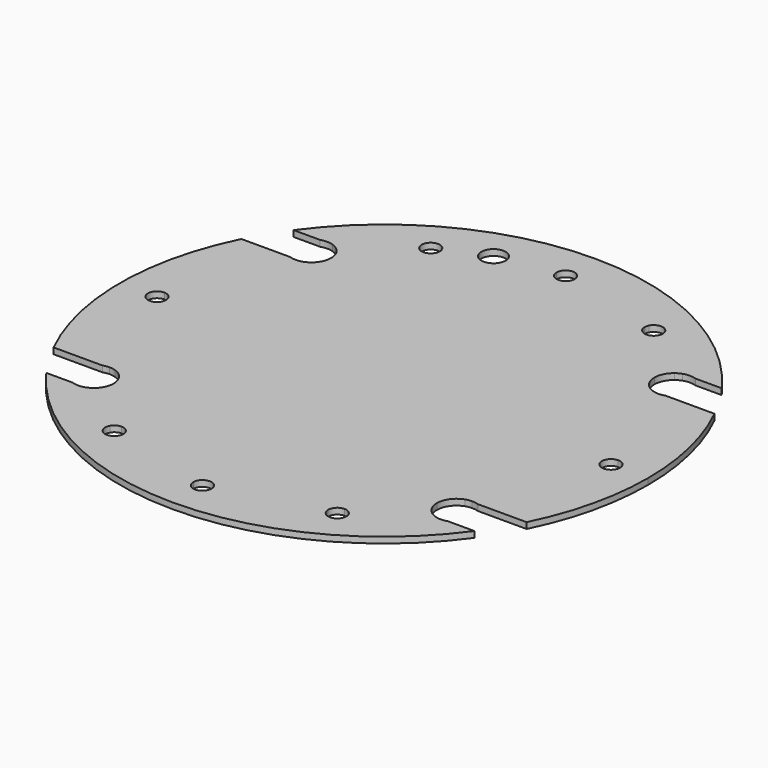
from build123d import *

# Parameters (mm, degrees)
F0_W     = 73.7878350085
F0_H     = 90
F1_DEPTH = 2


with BuildPart() as f1:
    # F0 (on Top) → F1 (new body)
    with BuildSketch(Plane.XY):
        with BuildLine():
            ThreePointArc((39.7444489138, 62.7662374325), (48.4949826486, 56.4517818988), (56.25072261, 48.9489366399))
            ThreePointArc((56.25072261, 48.9489366399), (57.1629943627, 49.5491889391), (58.1628805597, 49.9882449339))
            ThreePointArc((58.1628805597, 49.9882449339), (60.2670431009, 50.3382449339), (62.3712056422, 49.9882449339))
            Line((62.3712056422, 49.9882449339), (71.1075096636, 49.9882449339))
            ThreePointArc((71.1075096636, 49.9882449339), (0.2670431009, 86.2149821287), (-70.5734234617, 49.9882449339))
            Line((-70.5734234617, 49.9882449339), (-61.8371194403, 49.9882449339))
            ThreePointArc((-61.8371194403, 49.9882449339), (-59.7329568991, 50.3382449339), (-57.6287943578, 49.9882449339))
            ThreePointArc((-57.6287943578, 49.9882449339), (-56.6289081608, 49.5491889391), (-55.7166364081, 48.9489366399))
            ThreePointArc((-55.7166364081, 48.9489366399), (-47.9608964467, 56.4517818988), (-39.210362712, 62.7662374325))
            ThreePointArc((-39.210362712, 62.7662374325), (-38.0999813971, 66.9046437634), (-33.9845676129, 65.7118642328))
            ThreePointArc((-33.9845676129, 65.7118642328), (-29.5146570092, 67.8187069008), (-24.9159238599, 69.6271704072))
            ThreePointArc((-24.9159238599, 69.6271704072), (-22.2511598208, 74.7016983457), (-17.2493627904, 71.9028007682))
            ThreePointArc((-17.2493627904, 71.9028007682), (-10.040168129, 73.2628053376), (-2.7327040585, 73.9132428466))
            ThreePointArc((-2.7327040585, 73.9132428466), (0.2475684804, 76.9521280563), (3.2670431009, 73.9521912671))
            ThreePointArc((3.2670431009, 73.9521912671), (3.2669798901, 73.9327166465), (3.2667902604, 73.9132428466))
            ThreePointArc((3.2667902604, 73.9132428466), (19.3387910188, 71.5123271502), (34.5186538148, 65.7118642328))
            ThreePointArc((34.5186538148, 65.7118642328), (37.8934493863, 67.2004280253), (40.1609606052, 64.2912253535))
            ThreePointArc((40.1609606052, 64.2912253535), (40.0549599941, 63.5008029746), (39.7444489138, 62.7662374325))
        make_face()
        with BuildLine():
            Line((-33.6268744033, 64.2912253535), (34.1609606052, 64.2912253535))
            ThreePointArc((34.1609606052, 64.2912253535), (34.2517579334, 65.0237141345), (34.5186538148, 65.7118642328))
            ThreePointArc((34.5186538148, 65.7118642328), (19.3387910188, 71.5123271502), (3.2667902604, 73.9132428466))
            ThreePointArc((3.2667902604, 73.9132428466), (0.2670431009, 70.9521912671), (-2.7327040585, 73.9132428466))
            ThreePointArc((-2.7327040585, 73.9132428466), (-10.040168129, 73.2628053376), (-17.2493627904, 71.9028007682))
            ThreePointArc((-17.2493627904, 71.9028007682), (-17.1471933384, 71.3894027327), (-17.1129413209, 70.8670590345))
            ThreePointArc((-17.1129413209, 70.8670590345), (-20.4852193108, 66.9166204414), (-24.9159238599, 69.6271704072))
            ThreePointArc((-24.9159238599, 69.6271704072), (-29.5146570092, 67.8187069008), (-33.9845676129, 65.7118642328))
            ThreePointArc((-33.9845676129, 65.7118642328), (-33.7176717315, 65.0237141345), (-33.6268744033, 64.2912253535))
        make_face()
        with BuildLine():
            Line((-36.6268744033, 43.8382449339), (37.1609606052, 43.8382449339))
            Line((37.1609606052, 43.8382449339), (37.1609606052, 49.2871185703))
            ThreePointArc((37.1609606052, 49.2871185703), (0.2670431009, 61.3382449339), (-36.6268744033, 49.2871185703))
            Line((-36.6268744033, 49.2871185703), (-36.6268744033, 43.8382449339))
        make_face()
        with Locations((0.2670431009, -1.1617550661)):
            Rectangle(F0_W, F0_H)
        with BuildLine():
            ThreePointArc((-36.6268744033, 49.2871185703), (0.2670431009, 61.3382449339), (37.1609606052, 49.2871185703))
            Line((37.1609606052, 49.2871185703), (37.1609606052, 61.2912253535))
            ThreePointArc((37.1609606052, 61.2912253535), (35.0396402617, 62.1699050099), (34.1609606052, 64.2912253535))
            Line((34.1609606052, 64.2912253535), (-33.6268744033, 64.2912253535))
            ThreePointArc((-33.6268744033, 64.2912253535), (-34.5055540598, 62.1699050099), (-36.6268744033, 61.2912253535))
            Line((-36.6268744033, 61.2912253535), (-36.6268744033, 49.2871185703))
        make_face()
        with BuildLine():
            ThreePointArc((-43.1063358313, 43.8382449339), (-39.9589718059, 46.6725184699), (-36.6268744033, 49.2871185703))
            Line((-36.6268744033, 49.2871185703), (-36.6268744033, 61.2912253535))
            ThreePointArc((-36.6268744033, 61.2912253535), (-38.1143279719, 61.6859457367), (-39.210362712, 62.7662374325))
            ThreePointArc((-39.210362712, 62.7662374325), (-47.9608964467, 56.4517818988), (-55.7166364081, 48.9489366399))
            ThreePointArc((-55.7166364081, 48.9489366399), (-53.8867579976, 46.6793641507), (-53.2329568991, 43.8382449339))
            Line((-53.2329568991, 43.8382449339), (-43.1063358313, 43.8382449339))
        make_face()
        with BuildLine():
            Line((-43.1063358313, 43.8382449339), (-36.6268744033, 43.8382449339))
            Line((-36.6268744033, 43.8382449339), (-36.6268744033, 49.2871185703))
            ThreePointArc((-36.6268744033, 49.2871185703), (-39.9589718059, 46.6725184699), (-43.1063358313, 43.8382449339))
        make_face()
        with BuildLine():
            Line((-36.6268744033, -46.1617550661), (-36.6268744033, 43.8382449339))
            Line((-36.6268744033, 43.8382449339), (-43.1063358313, 43.8382449339))
            ThreePointArc((-43.1063358313, 43.8382449339), (-53.217313191, 31.1751222109), (-59.7329568991, 16.3382449339))
            Line((-59.7329568991, 16.3382449339), (-59.7329568991, -18.6617550661))
            ThreePointArc((-59.7329568991, -18.6617550661), (-53.217313191, -33.4986323432), (-43.1063358313, -46.1617550661))
            Line((-43.1063358313, -46.1617550661), (-36.6268744033, -46.1617550661))
        make_face()
        with BuildLine():
            ThreePointArc((-59.7329568991, 16.3382449339), (-53.217313191, 31.1751222109), (-43.1063358313, 43.8382449339))
            Line((-43.1063358313, 43.8382449339), (-53.2329568991, 43.8382449339))
            ThreePointArc((-53.2329568991, 43.8382449339), (-54.4449016555, 40.0585000032), (-57.6287943578, 37.6882449339))
            ThreePointArc((-57.6287943578, 37.6882449339), (-58.6664204487, 37.4263419402), (-59.7329568991, 37.3382449339))
            Line((-59.7329568991, 37.3382449339), (-59.7329568991, 16.3382449339))
        make_face()
        with BuildLine():
            ThreePointArc((-59.7329568991, -18.6617550661), (-62.2329568991, -1.1617550661), (-59.7329568991, 16.3382449339))
            Line((-59.7329568991, 16.3382449339), (-59.7329568991, 37.3382449339))
            ThreePointArc((-59.7329568991, 37.3382449339), (-60.7994933494, 37.4263419402), (-61.8371194403, 37.6882449339))
            Line((-61.8371194403, 37.6882449339), (-64.0441635012, 37.6882449339))
            ThreePointArc((-64.0441635012, 37.6882449339), (-71.6943261151, 20.4441500334), (-74.8079548118, 1.8379920933))
            ThreePointArc((-74.8079548118, 1.8379920933), (-72.7118569492, 0.9457499444), (-71.8469032323, -1.1617550661))
            ThreePointArc((-71.8469032323, -1.1617550661), (-72.7118569492, -3.2692600767), (-74.8079548118, -4.1615022256))
            ThreePointArc((-74.8079548118, -4.1615022256), (-71.6943261151, -22.7676601657), (-64.0441635012, -40.0117550661))
            Line((-64.0441635012, -40.0117550661), (-61.8371194403, -40.0117550661))
            ThreePointArc((-61.8371194403, -40.0117550661), (-60.7994933494, -39.7498520725), (-59.7329568991, -39.6617550661))
            Line((-59.7329568991, -39.6617550661), (-59.7329568991, -18.6617550661))
        make_face()
        with BuildLine():
            Line((-64.0441635012, 37.6882449339), (-77.9977107977, 37.6882449339))
            ThreePointArc((-77.9977107977, 37.6882449339), (-87.1096939106, -1.1674142446), (-77.9926777014, -40.0218927752))
            Line((-77.9926777014, -40.0218927752), (-77.9926777014, -40.0117550661))
            Line((-77.9926777014, -40.0117550661), (-64.0441635012, -40.0117550661))
            ThreePointArc((-64.0441635012, -40.0117550661), (-71.6943261151, -22.7676601657), (-74.8079548118, -4.1615022256))
            ThreePointArc((-74.8079548118, -4.1615022256), (-77.8469032323, -1.1617550661), (-74.8079548118, 1.8379920933))
            ThreePointArc((-74.8079548118, 1.8379920933), (-71.6943261151, 20.4441500334), (-64.0441635012, 37.6882449339))
        make_face()
        with BuildLine():
            Line((-59.7329568991, -18.6617550661), (-59.7329568991, 16.3382449339))
            ThreePointArc((-59.7329568991, 16.3382449339), (-62.2329568991, -1.1617550661), (-59.7329568991, -18.6617550661))
        make_face()
        with BuildLine():
            ThreePointArc((60.2670431009, 16.3382449339), (53.7513993929, 31.1751222109), (43.6404220332, 43.8382449339))
            Line((43.6404220332, 43.8382449339), (37.1609606052, 43.8382449339))
            Line((37.1609606052, 43.8382449339), (37.1609606052, -46.1617550661))
            Line((37.1609606052, -46.1617550661), (43.6404220332, -46.1617550661))
            ThreePointArc((43.6404220332, -46.1617550661), (53.7513993929, -33.4986323432), (60.2670431009, -18.6617550661))
            Line((60.2670431009, -18.6617550661), (60.2670431009, 16.3382449339))
        make_face()
        with BuildLine():
            Line((37.1609606052, 43.8382449339), (43.6404220332, 43.8382449339))
            ThreePointArc((43.6404220332, 43.8382449339), (40.4930580078, 46.6725184699), (37.1609606052, 49.2871185703))
            Line((37.1609606052, 49.2871185703), (37.1609606052, 43.8382449339))
        make_face()
        with BuildLine():
            Line((43.6404220332, 43.8382449339), (53.7670431009, 43.8382449339))
            ThreePointArc((53.7670431009, 43.8382449339), (54.4208441995, 46.6793641507), (56.25072261, 48.9489366399))
            ThreePointArc((56.25072261, 48.9489366399), (48.4949826486, 56.4517818988), (39.7444489138, 62.7662374325))
            ThreePointArc((39.7444489138, 62.7662374325), (38.6484141737, 61.6859457367), (37.1609606052, 61.2912253535))
            Line((37.1609606052, 61.2912253535), (37.1609606052, 49.2871185703))
            ThreePointArc((37.1609606052, 49.2871185703), (40.4930580078, 46.6725184699), (43.6404220332, 43.8382449339))
        make_face()
        with BuildLine():
            ThreePointArc((58.1628805597, 37.6882449339), (54.9789878574, 40.0585000032), (53.7670431009, 43.8382449339))
            Line((53.7670431009, 43.8382449339), (43.6404220332, 43.8382449339))
            ThreePointArc((43.6404220332, 43.8382449339), (53.7513993929, 31.1751222109), (60.2670431009, 16.3382449339))
            Line((60.2670431009, 16.3382449339), (60.2670431009, 37.3382449339))
            ThreePointArc((60.2670431009, 37.3382449339), (59.2005066506, 37.4263419402), (58.1628805597, 37.6882449339))
        make_face()
        with BuildLine():
            ThreePointArc((62.3712056422, 37.6882449339), (61.3335795513, 37.4263419402), (60.2670431009, 37.3382449339))
            Line((60.2670431009, 37.3382449339), (60.2670431009, 16.3382449339))
            ThreePointArc((60.2670431009, 16.3382449339), (62.1388864548, 7.6770796987), (62.7670431009, -1.1617550661))
            ThreePointArc((62.7670431009, -1.1617550661), (62.1388864548, -10.000589831), (60.2670431009, -18.6617550661))
            Line((60.2670431009, -18.6617550661), (60.2670431009, -39.6617550661))
            ThreePointArc((60.2670431009, -39.6617550661), (61.3335795513, -39.7498520725), (62.3712056422, -40.0117550661))
            Line((62.3712056422, -40.0117550661), (64.5782497031, -40.0117550661))
            ThreePointArc((64.5782497031, -40.0117550661), (72.228412317, -22.7676601657), (75.3420410137, -4.1615022256))
            ThreePointArc((75.3420410137, -4.1615022256), (72.3809894341, -1.1617550661), (75.3420410137, 1.8379920933))
            ThreePointArc((75.3420410137, 1.8379920933), (72.228412317, 20.4441500334), (64.5782497031, 37.6882449339))
            Line((64.5782497031, 37.6882449339), (62.3712056422, 37.6882449339))
        make_face()
        with BuildLine():
            Line((78.5317969996, 37.6882449339), (64.5782497031, 37.6882449339))
            ThreePointArc((64.5782497031, 37.6882449339), (72.228412317, 20.4441500334), (75.3420410137, 1.8379920933))
            ThreePointArc((75.3420410137, 1.8379920933), (77.4884944447, 0.9732912169), (78.3809894341, -1.1617550661))
            ThreePointArc((78.3809894341, -1.1617550661), (77.4884944447, -3.2968013492), (75.3420410137, -4.1615022256))
            ThreePointArc((75.3420410137, -4.1615022256), (72.228412317, -22.7676601657), (64.5782497031, -40.0117550661))
            Line((64.5782497031, -40.0117550661), (78.5317969996, -40.0117550661))
            ThreePointArc((78.5317969996, -40.0117550661), (85.3352893384, -21.1138899118), (87.6437802958, -1.1617550661))
            ThreePointArc((87.6437802958, -1.1617550661), (85.3352893384, 18.7903797795), (78.5317969996, 37.6882449339))
        make_face()
        with BuildLine():
            ThreePointArc((62.7670431009, -1.1617550661), (62.1388864548, 7.6770796987), (60.2670431009, 16.3382449339))
            Line((60.2670431009, 16.3382449339), (60.2670431009, -18.6617550661))
            ThreePointArc((60.2670431009, -18.6617550661), (62.1388864548, -10.000589831), (62.7670431009, -1.1617550661))
        make_face()
        with BuildLine():
            ThreePointArc((58.1628805597, -52.3117550661), (57.1629943627, -51.8726990713), (56.25072261, -51.2724467721))
            ThreePointArc((56.25072261, -51.2724467721), (48.4949826486, -58.7752920311), (39.7444489138, -65.0897475648))
            ThreePointArc((39.7444489138, -65.0897475648), (40.0549599941, -65.8243131069), (40.1609606052, -66.6147354858))
            ThreePointArc((40.1609606052, -66.6147354858), (37.8934493863, -69.5239381576), (34.5186538148, -68.035374365))
            ThreePointArc((34.5186538148, -68.035374365), (19.3387910188, -73.8358372824), (3.2667902604, -76.2367529789))
            ThreePointArc((3.2667902604, -76.2367529789), (3.2669798901, -76.2562267788), (3.2670431009, -76.2757013993))
            ThreePointArc((3.2670431009, -76.2757013993), (0.2475684804, -79.2756381885), (-2.7327040585, -76.2367529789))
            ThreePointArc((-2.7327040585, -76.2367529789), (-18.8047048169, -73.8358372824), (-33.9845676129, -68.035374365))
            ThreePointArc((-33.9845676129, -68.035374365), (-38.0999813971, -69.2281538956), (-39.210362712, -65.0897475648))
            ThreePointArc((-39.210362712, -65.0897475648), (-47.9608964467, -58.7752920311), (-55.7166364081, -51.2724467721))
            ThreePointArc((-55.7166364081, -51.2724467721), (-56.6289081608, -51.8726990713), (-57.6287943578, -52.3117550661))
            ThreePointArc((-57.6287943578, -52.3117550661), (-59.7329568991, -52.6617550661), (-61.8371194403, -52.3117550661))
            Line((-61.8371194403, -52.3117550661), (-70.5734234617, -52.3117550661))
            ThreePointArc((-70.5734234617, -52.3117550661), (0.2670431009, -88.538492261), (71.1075096636, -52.3117550661))
            Line((71.1075096636, -52.3117550661), (62.3712056422, -52.3117550661))
            ThreePointArc((62.3712056422, -52.3117550661), (60.2670431009, -52.6617550661), (58.1628805597, -52.3117550661))
        make_face()
        with BuildLine():
            ThreePointArc((34.5186538148, -68.035374365), (34.2517579334, -67.3472242668), (34.1609606052, -66.6147354858))
            Line((34.1609606052, -66.6147354858), (-33.6268744033, -66.6147354858))
            ThreePointArc((-33.6268744033, -66.6147354858), (-33.7176717315, -67.3472242668), (-33.9845676129, -68.035374365))
            ThreePointArc((-33.9845676129, -68.035374365), (-18.8047048169, -73.8358372824), (-2.7327040585, -76.2367529789))
            ThreePointArc((-2.7327040585, -76.2367529789), (0.2670431009, -73.2757013993), (3.2667902604, -76.2367529789))
            ThreePointArc((3.2667902604, -76.2367529789), (19.3387910188, -73.8358372824), (34.5186538148, -68.035374365))
        make_face()
        with BuildLine():
            Line((37.1609606052, -63.6147354858), (37.1609606052, -51.6106287026))
            ThreePointArc((37.1609606052, -51.6106287026), (0.2670431009, -63.6617550661), (-36.6268744033, -51.6106287026))
            Line((-36.6268744033, -51.6106287026), (-36.6268744033, -63.6147354858))
            ThreePointArc((-36.6268744033, -63.6147354858), (-34.5055540598, -64.4934151422), (-33.6268744033, -66.6147354858))
            Line((-33.6268744033, -66.6147354858), (34.1609606052, -66.6147354858))
            ThreePointArc((34.1609606052, -66.6147354858), (35.0396402617, -64.4934151422), (37.1609606052, -63.6147354858))
        make_face()
        with BuildLine():
            Line((37.1609606052, -51.6106287026), (37.1609606052, -46.1617550661))
            Line((37.1609606052, -46.1617550661), (-36.6268744033, -46.1617550661))
            Line((-36.6268744033, -46.1617550661), (-36.6268744033, -51.6106287026))
            ThreePointArc((-36.6268744033, -51.6106287026), (0.2670431009, -63.6617550661), (37.1609606052, -51.6106287026))
        make_face()
        with BuildLine():
            Line((43.6404220332, -46.1617550661), (37.1609606052, -46.1617550661))
            Line((37.1609606052, -46.1617550661), (37.1609606052, -51.6106287026))
            ThreePointArc((37.1609606052, -51.6106287026), (40.4930580078, -48.9960286021), (43.6404220332, -46.1617550661))
        make_face()
        with BuildLine():
            Line((-36.6268744033, -51.6106287026), (-36.6268744033, -46.1617550661))
            Line((-36.6268744033, -46.1617550661), (-43.1063358313, -46.1617550661))
            ThreePointArc((-43.1063358313, -46.1617550661), (-39.9589718059, -48.9960286021), (-36.6268744033, -51.6106287026))
        make_face()
        with BuildLine():
            Line((-53.2329568991, -46.1617550661), (-43.1063358313, -46.1617550661))
            ThreePointArc((-43.1063358313, -46.1617550661), (-53.217313191, -33.4986323432), (-59.7329568991, -18.6617550661))
            Line((-59.7329568991, -18.6617550661), (-59.7329568991, -39.6617550661))
            ThreePointArc((-59.7329568991, -39.6617550661), (-58.6664204487, -39.7498520725), (-57.6287943578, -40.0117550661))
            ThreePointArc((-57.6287943578, -40.0117550661), (-54.4449016555, -42.3820101355), (-53.2329568991, -46.1617550661))
        make_face()
        with BuildLine():
            ThreePointArc((-36.6268744033, -51.6106287026), (-39.9589718059, -48.9960286021), (-43.1063358313, -46.1617550661))
            Line((-43.1063358313, -46.1617550661), (-53.2329568991, -46.1617550661))
            ThreePointArc((-53.2329568991, -46.1617550661), (-53.8867579976, -49.002874283), (-55.7166364081, -51.2724467721))
            ThreePointArc((-55.7166364081, -51.2724467721), (-47.9608964467, -58.7752920311), (-39.210362712, -65.0897475648))
            ThreePointArc((-39.210362712, -65.0897475648), (-38.1143279719, -64.009455869), (-36.6268744033, -63.6147354858))
            Line((-36.6268744033, -63.6147354858), (-36.6268744033, -51.6106287026))
        make_face()
        with BuildLine():
            Line((60.2670431009, -39.6617550661), (60.2670431009, -18.6617550661))
            ThreePointArc((60.2670431009, -18.6617550661), (53.7513993929, -33.4986323432), (43.6404220332, -46.1617550661))
            Line((43.6404220332, -46.1617550661), (53.7670431009, -46.1617550661))
            ThreePointArc((53.7670431009, -46.1617550661), (54.9789878574, -42.3820101355), (58.1628805597, -40.0117550661))
            ThreePointArc((58.1628805597, -40.0117550661), (59.2005066506, -39.7498520725), (60.2670431009, -39.6617550661))
        make_face()
        with BuildLine():
            Line((53.7670431009, -46.1617550661), (43.6404220332, -46.1617550661))
            ThreePointArc((43.6404220332, -46.1617550661), (40.4930580078, -48.9960286021), (37.1609606052, -51.6106287026))
            Line((37.1609606052, -51.6106287026), (37.1609606052, -63.6147354858))
            ThreePointArc((37.1609606052, -63.6147354858), (38.6484141737, -64.009455869), (39.7444489138, -65.0897475648))
            ThreePointArc((39.7444489138, -65.0897475648), (48.4949826486, -58.7752920311), (56.25072261, -51.2724467721))
            ThreePointArc((56.25072261, -51.2724467721), (54.4208441995, -49.002874283), (53.7670431009, -46.1617550661))
        make_face()
    extrude(amount=F1_DEPTH)


solid = f1.part
